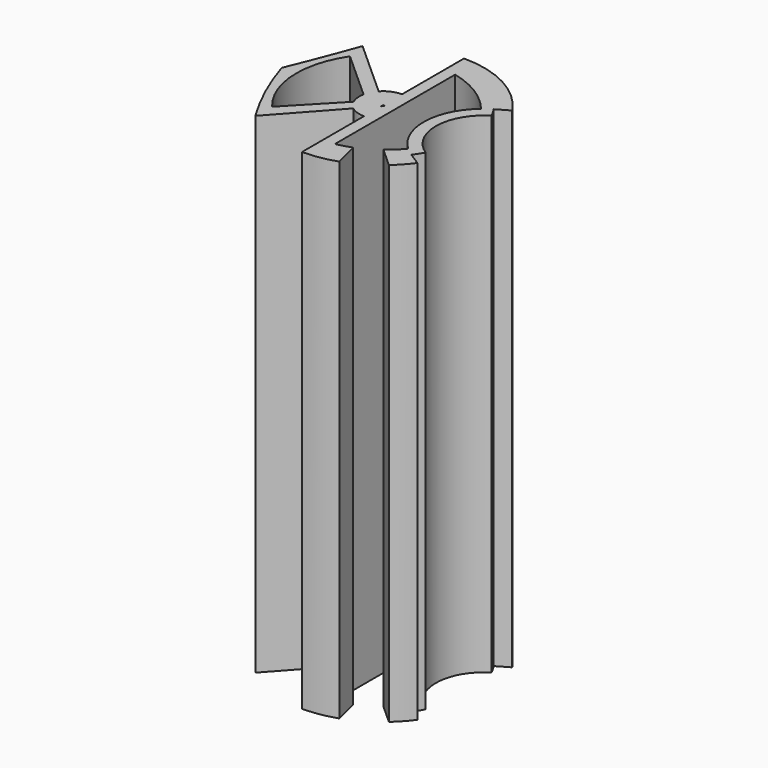
from build123d import *

# Parameters (mm, degrees)
F1_DEPTH = 150


with BuildPart() as f1:
    # F0 (on Top) → F1 (new body)
    with BuildSketch(Plane.XY):
        with BuildLine():
            ThreePointArc((25.814152, 17.154262), (14.645083, 27.315942), (0, 30.994179))
            Line((0, 30.994179), (0, 7.264744))
            ThreePointArc((0, 7.264744), (-2.889186, 6.665516), (-5.301747, 4.966687))
            Line((-5.301747, 4.966687), (-22.933848, 20.848927))
            ThreePointArc((-22.933848, 20.848927), (-26.848582, 10.379837), (-30.994179, 0))
            ThreePointArc((-30.994179, 0), (-26.420326, -12.000489), (-20.392553, -23.340586))
            Line((-20.392553, -23.340586), (-4.503246, -5.700638))
            ThreePointArc((-4.503246, -5.700638), (-2.383571, -6.862586), (0, -7.264744))
            Line((0, -7.264744), (0, -30.994179))
            ThreePointArc((0, -30.994179), (5.100508, -30.57162), (10.061941, -29.315465))
            Line((10.061941, -29.315465), (8.09156, -21.526162))
            ThreePointArc((8.09156, -21.526162), (5.854761, -22.298598), (3.558091, -22.868897))
            Line((3.558091, -22.868897), (3.558091, 23.124045))
            ThreePointArc((3.558091, 23.124045), (12.337875, 19.47075), (19.465813, 13.176015))
            ThreePointArc((19.465813, 13.176015), (12.993126, -0.152837), (18.736154, -13.81196))
            ThreePointArc((18.736154, -13.81196), (16.713964, -15.984666), (14.461999, -17.918201))
            Line((14.461999, -17.918201), (20.437817, -23.300961))
            ThreePointArc((20.437817, -23.300961), (22.903573, -20.882181), (25.084883, -18.204059))
            Line((25.084883, -18.204059), (21.295682, -15.788668))
            ThreePointArc((21.295682, -15.788668), (22.318132, -14.30696), (23.237664, -12.759275))
            ThreePointArc((23.237664, -12.759275), (16.608393, -0.279461), (23.653775, 11.970256))
            ThreePointArc((23.653775, 11.970256), (22.838115, 13.461376), (21.928581, 14.897163))
            Line((21.928581, 14.897163), (25.814152, 17.154262))
        make_face()
        with BuildLine():
            ThreePointArc((-20.206342, -17.160765), (-26.469748, -1.463059), (-21.974525, 14.829307))
            Line((-21.974525, 14.829307), (-7.118963, 1.448055))
            ThreePointArc((-7.118963, 1.448055), (-7.220049, -0.804608), (-6.625525, -2.979753))
            Line((-6.625525, -2.979753), (-20.206342, -17.160765))
        make_face(mode=Mode.SUBTRACT)
        Polygon((0.443744, -0.208603), (0, -0.701237), (0, 0), (0, 0.191102), (0.212157, 0), (0.631644, 0), align=None, mode=Mode.SUBTRACT)
    extrude(amount=F1_DEPTH)


solid = f1.part
